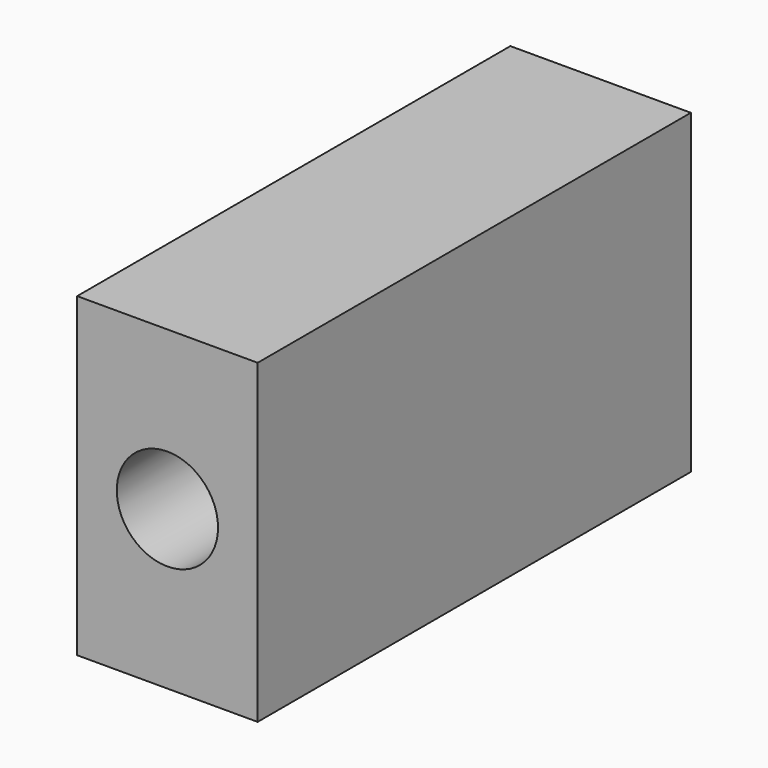
from build123d import *

# Parameters (mm, degrees)
F0_W       = 30
F0_H       = 90
F1_DEPTH   = 52.5526
F2_R       = 8.415221428
F1_FACE1_W = 30
F1_FACE1_H = 52.5526
F3_DEPTH   = 25.4


with BuildPart() as f1:
    # F0 (on Top) → F1 (new body)
    with BuildSketch(Plane.XY):
        Rectangle(F0_W, F0_H)
    extrude(amount=F1_DEPTH)

    # F2 (on face) + F1_face1 (on face) → F3 (cut)
    with BuildSketch(Plane.XZ.offset(45)):
        with Locations((0, 26.2763)):
            Circle(F2_R)
    with BuildSketch(Plane(origin=(0, 45, 26.2763), x_dir=(-1, 0, 0), z_dir=(0, 1, 0))):
        Rectangle(F1_FACE1_W, F1_FACE1_H)
    extrude(amount=-F3_DEPTH, dir=(0, -1, 0), mode=Mode.SUBTRACT)


solid = f1.part
